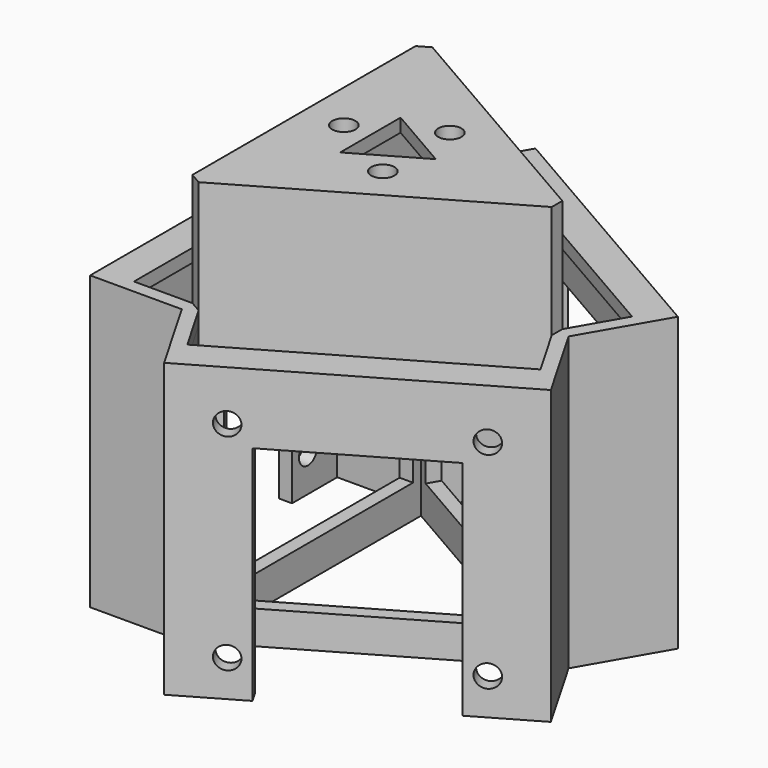
from build123d import *

# Parameters (mm, degrees)
PAD_DEPTH       = 44
PAD001_DEPTH    = 11.8
SKETCH002_R     = 1.7
PAD002_DEPTH    = 2
POCKET_DEPTH    = 5
SKETCH004_W     = 36
SKETCH004_H     = 34
POCKET001_DEPTH = 3
SKETCH005_W     = 36
SKETCH005_H     = 34
POCKET002_DEPTH = 4
PAD003_DEPTH    = 11.8
SKETCH007_R     = 1.7
PAD004_DEPTH    = 2
POCKET003_DEPTH = 2
PAD005_DEPTH    = 11.8
SKETCH010_R     = 1.7
PAD006_DEPTH    = 2
SKETCH011_W     = 8.8
SKETCH011_H     = 42
POCKET004_DEPTH = 2
SKETCH012_W     = 36
SKETCH012_H     = 34
POCKET005_DEPTH = 3
PAD007_DEPTH    = 15
SKETCH014_R     = 1.75
PAD008_DEPTH    = 2


with BuildPart() as part:
    # Sketch → Pad (new body)
    with BuildSketch(Plane.XY):
        Polygon((26.5581123827, 0), (-13.2790561914, 23), (-13.2790561914, -23), align=None)
        Polygon((22.5166604984, 0), (-11.2583302492, 19.5), (-11.2583302492, -19.5), align=None, mode=Mode.SUBTRACT)
    extrude(amount=PAD_DEPTH)

    # Sketch001 (on Face3 of Pad) → Pad001 (join)
    with BuildSketch(Plane(origin=(6.6395280957, -11.5, 0), x_dir=(0.8660254038, 0.5, 0), z_dir=(0.5, -0.8660254038, 0))):
        Polygon((-23, 0), (-21, 0), (-21, 42), (21, 42), (21, 0), (23, 0), (23, 44), (-23, 44), align=None)
    extrude(amount=PAD001_DEPTH)

    # Sketch002 (on Face8 of Pad001) → Pad002 (join)
    with BuildSketch(Plane(origin=(12.5395280957, -21.7190997647, 0), x_dir=(0.8660254038, 0.5, 0), z_dir=(0.5, -0.8660254038, 0))):
        Polygon((-23, 0), (-12.5, 0), (-12.5, 33.5), (12.5, 33.5), (12.5, 0), (23, 0), (23, 44), (-23, 44), align=None)
        with Locations((-15.5, 36.5)):
            Circle(SKETCH002_R, mode=Mode.SUBTRACT)
        with Locations((-15.5, 5.5)):
            Circle(SKETCH002_R, mode=Mode.SUBTRACT)
        with Locations((15.5, 5.5)):
            Circle(SKETCH002_R, mode=Mode.SUBTRACT)
        with Locations((15.5, 36.5)):
            Circle(SKETCH002_R, mode=Mode.SUBTRACT)
    extrude(amount=PAD002_DEPTH)

    # Sketch003 (on Face7 of Pad002) → Pocket (cut)
    with BuildSketch(Plane.XY.offset(44)):
        Polygon((-11.5470053838, -22), (-7.1470053838, -29.6210235533), (29.2260615752, -8.6210235533), (24.8260615752, -1), align=None)
    extrude(amount=-POCKET_DEPTH, mode=Mode.SUBTRACT)

    # Sketch004 (on Face11 of Pocket) → Pocket001 (cut)
    with BuildSketch(Plane(origin=(6.6395280957, -11.5, 0), x_dir=(0.8660254038, 0.5, 0), z_dir=(0.5, -0.8660254038, 0))):
        with Locations((0, 22)):
            Rectangle(SKETCH004_W, SKETCH004_H)
    extrude(amount=-POCKET001_DEPTH, mode=Mode.SUBTRACT)

    # Sketch005 (on Face1 of Pocket001) → Pocket002 (cut)
    with BuildSketch(Plane(origin=(6.6395280957, 11.5, 0), x_dir=(-0.8660254038, 0.5, 0), z_dir=(0.5, 0.8660254038, 0))):
        with Locations((0, 22)):
            Rectangle(SKETCH005_W, SKETCH005_H)
    extrude(amount=-POCKET002_DEPTH, mode=Mode.SUBTRACT)

    # Sketch006 (on Face1 of Pocket002) → Pad003 (join)
    with BuildSketch(Plane(origin=(6.6395280957, 11.5, 0), x_dir=(-0.8660254038, 0.5, 0), z_dir=(0.5, 0.8660254038, 0))):
        Polygon((-23, 44), (23, 44), (23, 0), (21, 0), (21, 42), (-21, 42), (-21, 0), (-23, 0), align=None)
    extrude(amount=PAD003_DEPTH)

    # Sketch007 (on Face19 of Pad003) → Pad004 (join)
    with BuildSketch(Plane(origin=(12.5395280957, 21.7190997647, 0), x_dir=(-0.8660254038, 0.5, 0), z_dir=(0.5, 0.8660254038, 0))):
        Polygon((-23, 0), (-12.5, 0), (-12.5, 33.5), (12.5, 33.5), (12.5, 0), (23, 0), (23, 44), (-23, 44), align=None)
        with Locations((-15.5, 36.5)):
            Circle(SKETCH007_R, mode=Mode.SUBTRACT)
        with Locations((15.5, 36.5)):
            Circle(SKETCH007_R, mode=Mode.SUBTRACT)
        with Locations((15.5, 5.5)):
            Circle(SKETCH007_R, mode=Mode.SUBTRACT)
        with Locations((-15.5, 5.5)):
            Circle(SKETCH007_R, mode=Mode.SUBTRACT)
    extrude(amount=PAD004_DEPTH)

    # Sketch008 (on Face43 of Pad004) → Pocket003 (cut)
    with BuildSketch(Plane.XY.offset(44)):
        Polygon((-11.5470053838, 22), (-7.1470053838, 29.6210235533), (29.2260615751, 8.6210235533), (24.8260615752, 1), align=None)
    extrude(amount=-POCKET003_DEPTH, mode=Mode.SUBTRACT)

    # Sketch009 (on Face12 of Pocket003) → Pad005 (join)
    with BuildSketch(Plane(origin=(-13.2790561914, 0, 0), x_dir=(0, -1, 0), z_dir=(-1, 0, 0))):
        Polygon((-23, 0), (-21, 0), (-21, 42), (21, 42), (21, 0), (23, 0), (23, 44), (-23, 44), align=None)
    extrude(amount=PAD005_DEPTH)

    # Sketch010 (on Face32 of Pad005) → Pad006 (join)
    with BuildSketch(Plane(origin=(-25.0790561914, 0, 0), x_dir=(0, -1, 0), z_dir=(-1, 0, 0))):
        Polygon((-23, 0), (-12.5, 0), (-12.5, 33.5), (12.5, 33.5), (12.5, 0), (23, 0), (23, 44), (-23, 44), align=None)
        with Locations((-15.5, 5.5)):
            Circle(SKETCH010_R, mode=Mode.SUBTRACT)
        with Locations((-15.5, 36.5)):
            Circle(SKETCH010_R, mode=Mode.SUBTRACT)
        with Locations((15.5, 36.5)):
            Circle(SKETCH010_R, mode=Mode.SUBTRACT)
        with Locations((15.5, 5.5)):
            Circle(SKETCH010_R, mode=Mode.SUBTRACT)
    extrude(amount=PAD006_DEPTH)

    # Sketch011 (on Face57 of Pad006) → Pocket004 (cut)
    with BuildSketch(Plane.XY.offset(44)):
        with Locations((-17.6790561914, 0)):
            Rectangle(SKETCH011_W, SKETCH011_H)
    extrude(amount=-POCKET004_DEPTH, mode=Mode.SUBTRACT)

    # Sketch012 (on Face13 of Pocket004) → Pocket005 (cut)
    with BuildSketch(Plane(origin=(-13.2790561914, 0, 0), x_dir=(0, -1, 0), z_dir=(-1, 0, 0))):
        with Locations((0, 22)):
            Rectangle(SKETCH012_W, SKETCH012_H)
    extrude(amount=-POCKET005_DEPTH, mode=Mode.SUBTRACT)

    # Sketch013 (on Face25 of Pocket005) → Pad007 (join)
    with BuildSketch(Plane.XY.offset(44)):
        Polygon((-13.2790561914, 21), (-11.5470053838, 22), (24.8260615752, 1), (24.8260615752, -1), (-11.5470053838, -22), (-13.2790561914, -21), align=None)
        Polygon((-11.2583302492, 19.5), (22.5166604984, 0), (-11.2583302492, -19.5), align=None, mode=Mode.SUBTRACT)
    extrude(amount=PAD007_DEPTH)

    # Sketch014 (on Face66 of Pad007) → Pad008 (join)
    with BuildSketch(Plane.XY.offset(59)):
        Polygon((-13.2790561914, 21), (-11.5470053838, 22), (24.8260615752, 1), (24.8260615752, -1), (-11.5470053838, -22), (-13.2790561914, -21), align=None)
        with Locations((-7.2790561914, 0)):
            Circle(SKETCH014_R, mode=Mode.SUBTRACT)
        with Locations((3.6395280957, 6.3038475773)):
            Circle(SKETCH014_R, mode=Mode.SUBTRACT)
        with Locations((3.6395280957, -6.3038475773)):
            Circle(SKETCH014_R, mode=Mode.SUBTRACT)
        Polygon((6.5581123827, 0), (-3.2790561914, 5.6794919243), (-3.2790561914, -5.6794919243), align=None, mode=Mode.SUBTRACT)
    extrude(amount=PAD008_DEPTH)


solid = part.part
